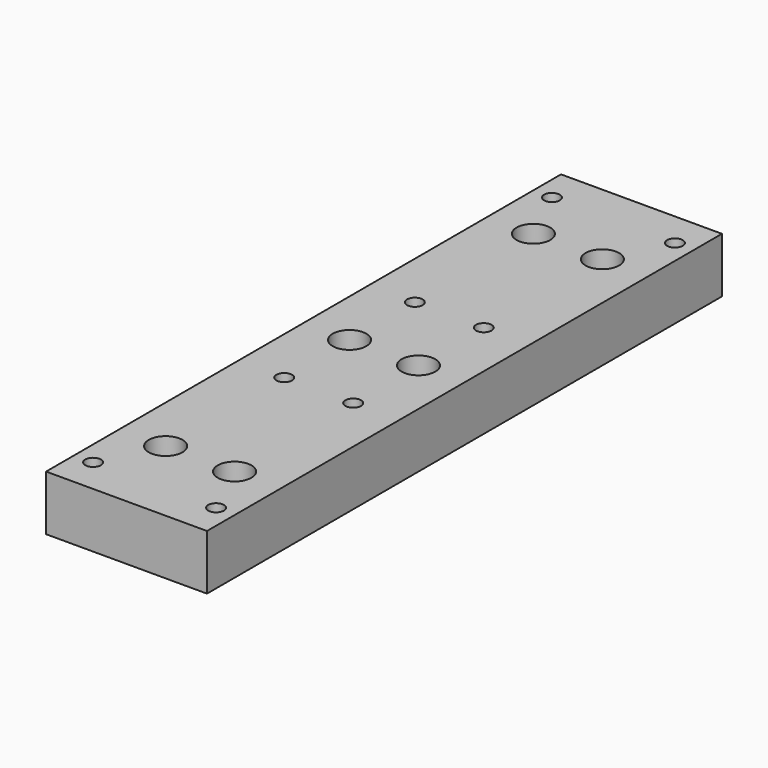
from build123d import *

# Parameters (mm, degrees)
F0_W     = 70
F0_H     = 280
F1_DEPTH = 24
F2_R     = 7.325
F3_DEPTH = 9
F4_R     = 4.5
F5_DEPTH = 24.001
F7_D     = 6.8


with BuildPart() as f1:
    # F0 (on Top) → F1 (new body)
    with BuildSketch(Plane.XY):
        with Locations((35, 140)):
            Rectangle(F0_W, F0_H)
    extrude(amount=F1_DEPTH)

    # F2 (on face) → F3 (cut)
    with BuildSketch(Plane.XY.offset(24)):
        with Locations((20, 140)):
            Circle(F2_R)
        with Locations((50, 140)):
            Circle(F2_R)
        with Locations((20, 240)):
            Circle(F2_R)
        with Locations((50, 240)):
            Circle(F2_R)
        with Locations((20, 40)):
            Circle(F2_R)
        with Locations((50, 40)):
            Circle(F2_R)
    extrude(amount=-F3_DEPTH, mode=Mode.SUBTRACT)

    # F4 (on face) → F5 (cut, through all)
    with BuildSketch(Plane.XY.offset(24)):
        with Locations((20, 240)):
            Circle(F4_R)
        with Locations((50, 240)):
            Circle(F4_R)
        with Locations((20, 140)):
            Circle(F4_R)
        with Locations((50, 140)):
            Circle(F4_R)
        with Locations((20, 40)):
            Circle(F4_R)
        with Locations((50, 40)):
            Circle(F4_R)
    extrude(amount=-F5_DEPTH, mode=Mode.SUBTRACT)

    # F7 (through all)
    with Locations(Plane.XY.offset(24)):
        with Locations((8.25, 264.75), (61.75, 264.75), (20, 175.5), (50, 175.5), (20, 104.5), (50, 104.5), (8.25, 15.25), (61.75, 15.25)):
            Hole(F7_D / 2)


solid = f1.part
